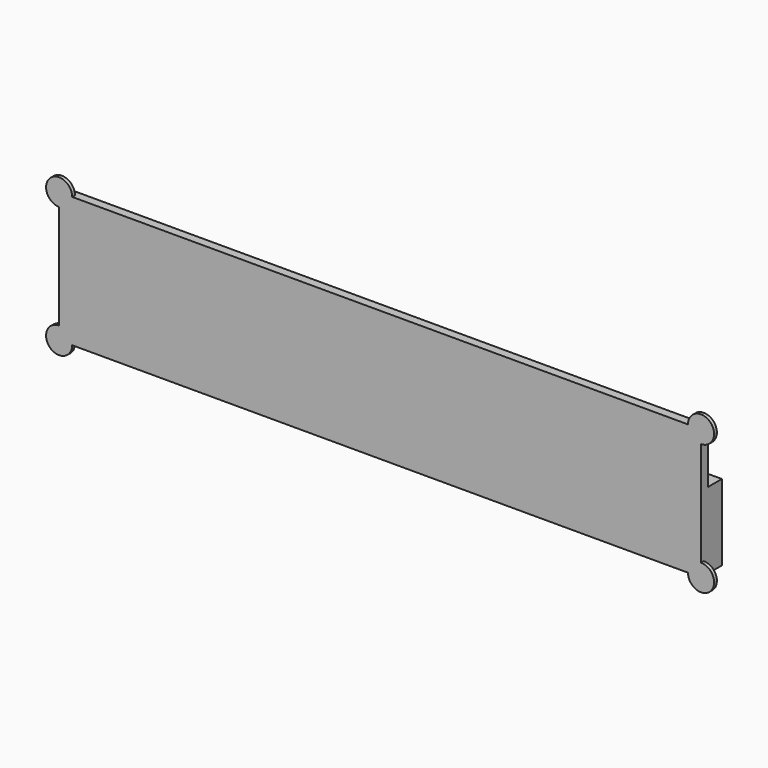
from build123d import *

# Parameters (mm, degrees)
F1_DEPTH = 93.6625
F3_DEPTH = 0.508


with BuildPart() as f1:
    # F0 (on Right) → F1 (new body)
    with BuildSketch(Plane.YZ):
        Polygon((1.27, -9.525), (1.27, 1.5875), (-1.27, 1.5875), (-1.27, 9.525), (-2.54, 9.525), (-2.54, -9.525), align=None)
    extrude(amount=F1_DEPTH)

    # F2 (on face) → F3 (join)
    with BuildSketch(Plane.XZ.offset(2.54)):
        with BuildLine():
            Line((93.6625, 9.525), (93.6625, 7.62))
            ThreePointArc((93.6625, 7.62), (95.0095384182, 8.1779615818), (95.5675, 9.525))
            ThreePointArc((95.5675, 9.525), (93.6625, 11.43), (91.7575, 9.525))
            Line((91.7575, 9.525), (93.6625, 9.525))
        make_face()
        with BuildLine():
            ThreePointArc((91.7575, -9.525), (93.6625, -11.43), (95.5675, -9.525))
            ThreePointArc((95.5675, -9.525), (95.0095384182, -8.1779615818), (93.6625, -7.62))
            Line((93.6625, -7.62), (93.6625, -9.525))
            Line((93.6625, -9.525), (91.7575, -9.525))
        make_face()
        with BuildLine():
            ThreePointArc((0, -7.62), (-1.3470384182, -10.8720384182), (1.905, -9.525))
            Line((1.905, -9.525), (0, -9.525))
            Line((0, -9.525), (0, -7.62))
        make_face()
        with BuildLine():
            Line((0, 9.525), (1.905, 9.525))
            ThreePointArc((1.905, 9.525), (-1.3470384182, 10.8720384182), (0, 7.62))
            Line((0, 7.62), (0, 9.525))
        make_face()
    extrude(amount=-F3_DEPTH)


solid = f1.part
